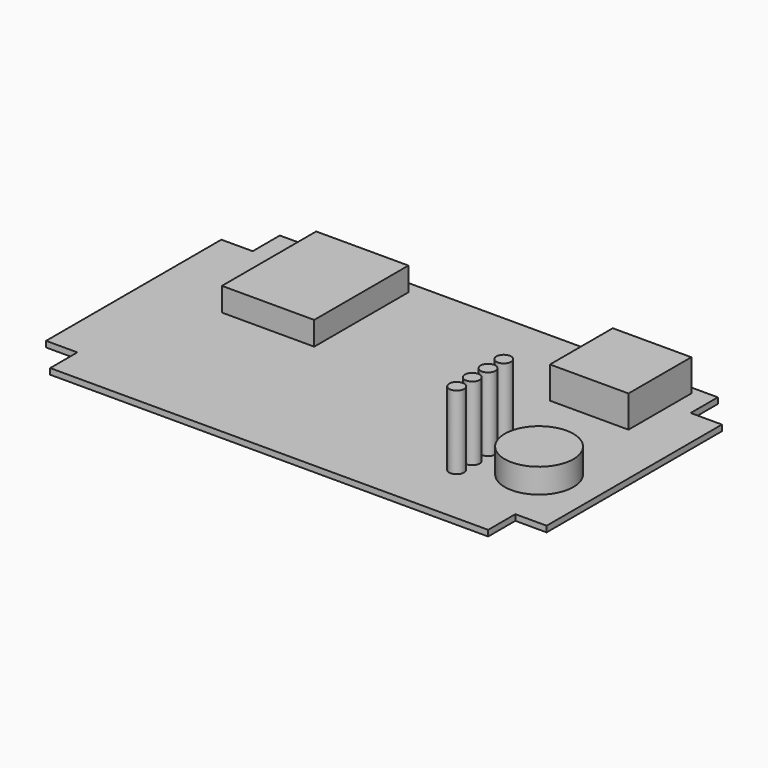
from build123d import *

# Parameters (mm, degrees)
PAD001_DEPTH = 1.2
SKETCH007_W  = 16
SKETCH007_H  = 16
PAD002_DEPTH = 6.5
SKETCH008_R  = 1.5
PAD003_DEPTH = 15
SKETCH009_R  = 7
PAD004_DEPTH = 5
SKETCH010_W  = 18.8
SKETCH010_H  = 24
PAD005_DEPTH = 4.8


with BuildPart() as part:
    # Sketch006 → Pad001 (new body)
    with BuildSketch(Plane.XY):
        Polygon((-10.625, 72.5), (78.625, 72.5), (78.625, 65.575), (85, 65.575), (85, 20.925), (78.625, 20.925), (78.625, 14), (-10.625, 14), (-10.625, 20.925), (-17, 20.925), (-17, 65.575), (-10.625, 65.575), align=None)
    extrude(amount=PAD001_DEPTH)

    # Sketch007 (on Face14 of Pad001) → Pad002 (join)
    with BuildSketch(Plane.XY.offset(1.2)):
        with Locations((66.5, 62.9)):
            Rectangle(SKETCH007_W, SKETCH007_H)
    extrude(amount=PAD002_DEPTH)

    # Sketch008 (on Face5 of Pad002) → Pad003 (join)
    with BuildSketch(Plane.XY.offset(1.2)):
        with Locations((61.8, 39)):
            Circle(SKETCH008_R)
        with Locations((61.8, 35)):
            Circle(SKETCH008_R)
        with Locations((61.8, 31)):
            Circle(SKETCH008_R)
        with Locations((61.8, 27)):
            Circle(SKETCH008_R)
    extrude(amount=PAD003_DEPTH)

    # Sketch009 (on Face5 of Pad003) → Pad004 (join)
    with BuildSketch(Plane.XY.offset(1.2)):
        with Locations((73, 34)):
            Circle(SKETCH009_R)
    extrude(amount=PAD004_DEPTH)

    # Sketch010 (on Face5 of Pad004) → Pad005 (join)
    with BuildSketch(Plane.XY.offset(1.2)):
        with Locations((8.18, 58)):
            Rectangle(SKETCH010_W, SKETCH010_H)
    extrude(amount=PAD005_DEPTH)


with BuildPart() as part_1:
    # Body004 placement: moved
    add(part.part.moved(Location((0, 0, 4))))


solid = part_1.part
